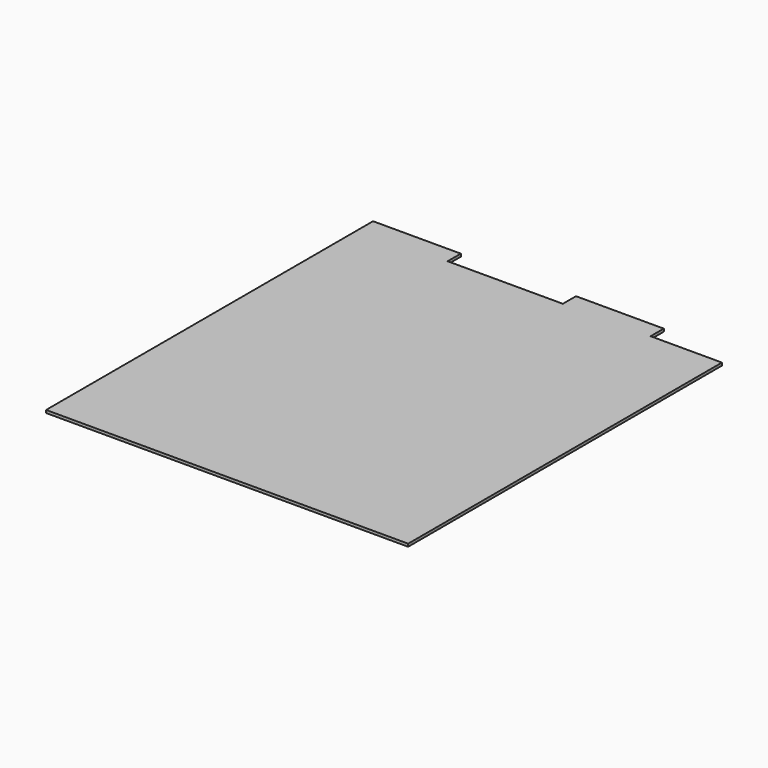
from build123d import *

# Parameters (mm, degrees)
F0_W     = 812.8
F0_H     = 152.4
F1_DEPTH = 25.4


with BuildPart() as f1:
    # F0 (on Top) → F1 (new body)
    with BuildSketch(Plane.XY):
        Polygon((-856.700591, 2634.985886), (-1669.500591, 2634.985886), (-1669.500591, -997.214114), (1683.299409, -997.214114), (1683.299409, 2634.985886), (1022.899409, 2634.985886), (210.099409, 2634.985886), align=None)
        with Locations((-1263.100591, 2711.185886)):
            Rectangle(F0_W, F0_H)
        with Locations((616.499409, 2711.185886)):
            Rectangle(F0_W, F0_H)
    extrude(amount=F1_DEPTH)


solid = f1.part
